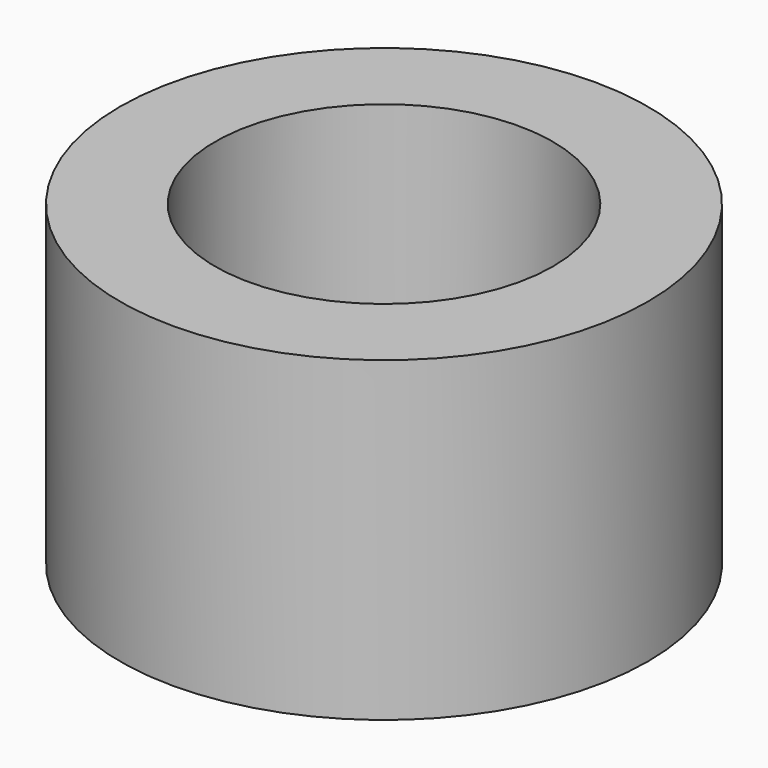
from build123d import *

# Parameters (mm, degrees)
SKETCH_R   = 2.5
SKETCH_R_2 = 1.6
PAD_DEPTH  = 3


with BuildPart() as part:
    # Sketch → Pad (new body)
    with BuildSketch(Plane.XY):
        Circle(SKETCH_R)
        Circle(SKETCH_R_2, mode=Mode.SUBTRACT)
    extrude(amount=PAD_DEPTH)


solid = part.part
